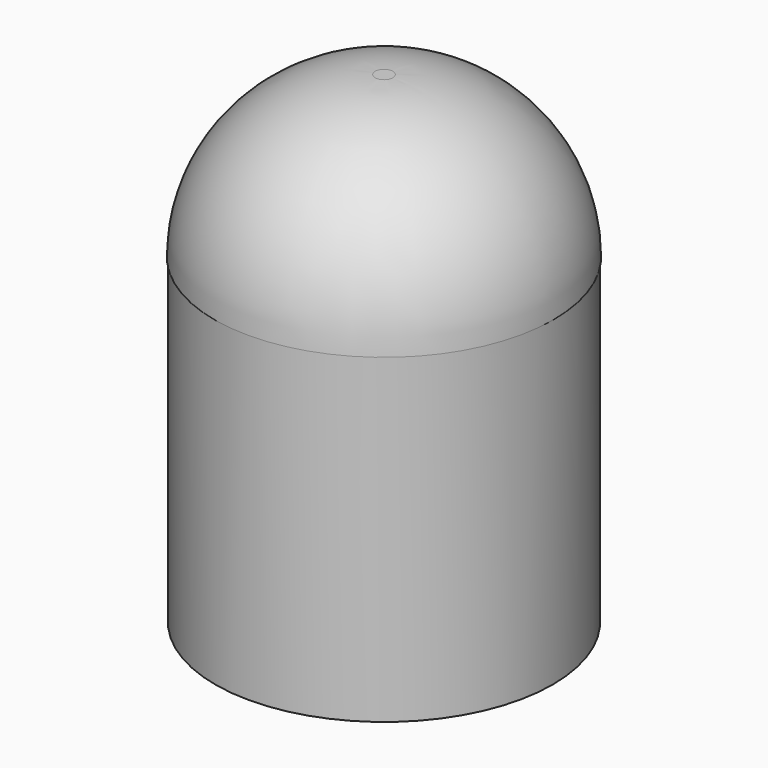
from build123d import *

# Parameters (mm, degrees)
F0_R     = 10.5
F1_DEPTH = 20


with BuildPart() as f1:
    # F0 (on Top) → F1 (new body)
    with BuildSketch(Plane.XY):
        with Locations((9.526279, 5.2)):
            Circle(F0_R)
        with BuildLine():
            Line((13.856406, 0), (5.196152, 0))
            ThreePointArc((5.196152, 0), (2.598076, 1.5), (2.598076, 4.5))
            Line((2.598076, 4.5), (6.928203, 12))
            ThreePointArc((6.928203, 12), (9.526279, 13.5), (12.124356, 12))
            Line((12.124356, 12), (16.454483, 4.5))
            ThreePointArc((16.454483, 4.5), (16.454483, 1.5), (13.856406, 0))
        make_face(mode=Mode.SUBTRACT)
    extrude(amount=F1_DEPTH)

    # F3 (on offset) → F4 (revolve)
    with BuildSketch(Plane.XZ.offset(-5.2)):
        with BuildLine():
            Line((9.526279, 30), (9.526279, 20))
            Line((9.526279, 20), (20.076279, 20))
            ThreePointArc((20.076279, 20), (17.147347, 27.071068), (10.076279, 30))
            Line((10.076279, 30), (9.526279, 30))
        make_face()
    revolve(axis=Axis((9.526279, 5.2, 15.713044), (0, 0, -1)))


solid = f1.part
